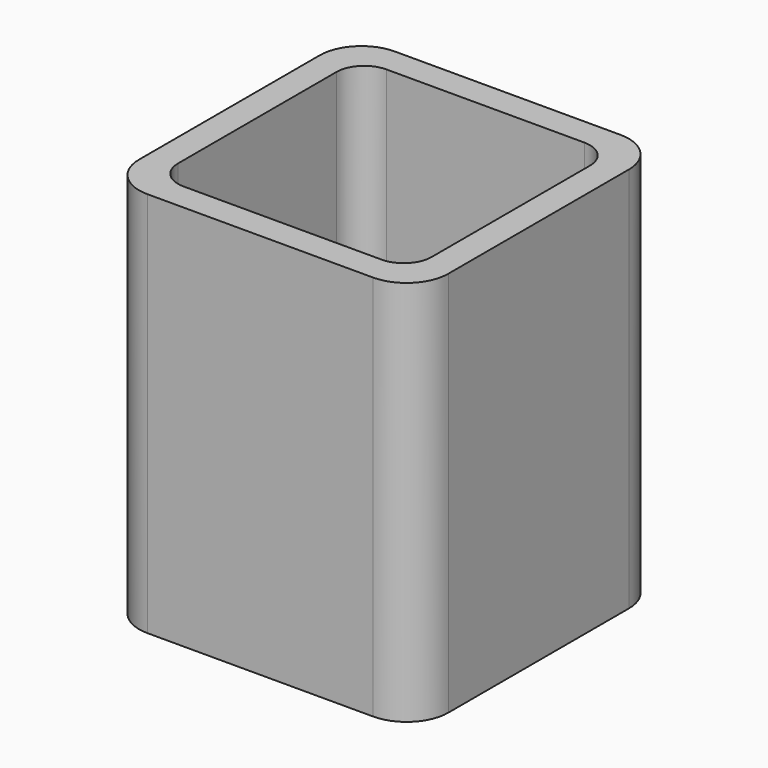
from build123d import *

# Parameters (mm, degrees)
EXTRUDE_DEPTH = 50


with BuildPart() as part:
    # Sketch → Extrude (new body)
    with BuildSketch(Plane.XY):
        with BuildLine():
            Line((-14.6, 20), (14.6, 20))
            ThreePointArc((20, 14.6), (18.418377, 18.418377), (14.6, 20))
            Line((20, 14.6), (20, -14.6))
            ThreePointArc((14.6, -20), (18.418377, -18.418377), (20, -14.6))
            Line((14.6, -20), (-14.6, -20))
            ThreePointArc((-20, -14.6), (-18.418377, -18.418377), (-14.6, -20))
            Line((-20, -14.6), (-20, 14.6))
            ThreePointArc((-14.6, 20), (-18.418377, 18.418377), (-20, 14.6))
        make_face()
        with BuildLine():
            Line((-12.8, 16.4), (12.8, 16.4))
            ThreePointArc((16.4, 12.8), (15.345584, 15.345584), (12.8, 16.4))
            Line((16.4, 12.8), (16.4, -12.8))
            ThreePointArc((12.8, -16.4), (15.345584, -15.345584), (16.4, -12.8))
            Line((12.8, -16.4), (-12.8, -16.4))
            ThreePointArc((-16.4, -12.8), (-15.345584, -15.345584), (-12.8, -16.4))
            Line((-16.4, -12.8), (-16.4, 12.8))
            ThreePointArc((-12.8, 16.4), (-15.345584, 15.345584), (-16.4, 12.8))
        make_face(mode=Mode.SUBTRACT)
    extrude(amount=EXTRUDE_DEPTH)


solid = part.part
